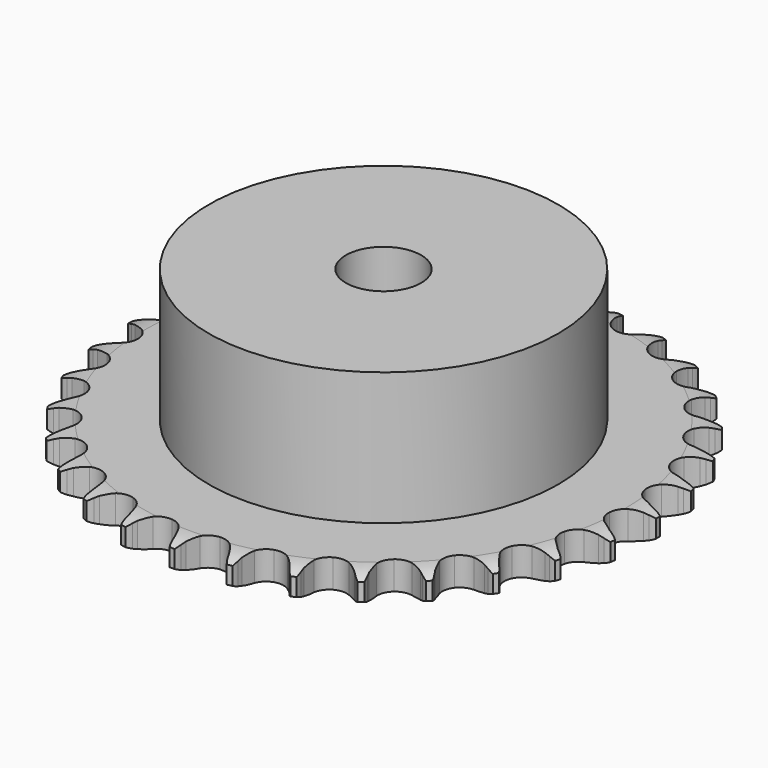
from build123d import *

# Parameters (mm, degrees)
PAD_DEPTH         = 5.3
SKETCH001_R       = 32.5
PAD001_DEPTH      = 30
SKETCH002_R       = 7
POCKET_DEPTH      = 0.001
POCKET_DEPTH_BACK = 30.001


with BuildPart() as part:
    # Sprocket → Pad (new body)
    with BuildSketch(Plane.XY):
        with BuildLine():
            ThreePointArc((-5.051205, 49.672555), (-4.455284, 48.887178), (-4.019635, 48.002785))
            Line((-4.019635, 48.002785), (-3.709921, 47.184961))
            ThreePointArc((-3.709921, 47.184961), (-3.217996, 46.119865), (-2.580961, 45.134672))
            ThreePointArc((-2.580961, 45.134672), (-1.442388, 44.186103), (0, 43.846037))
            ThreePointArc((0, 43.846037), (1.442388, 44.186103), (2.580961, 45.134672))
            ThreePointArc((2.580961, 45.134672), (3.217996, 46.119865), (3.709921, 47.184961))
            Line((3.709921, 47.184961), (4.019635, 48.002785))
            ThreePointArc((4.019635, 48.002785), (4.455284, 48.887178), (5.051205, 49.672555))
            ThreePointArc((5.051205, 49.672555), (5.476833, 48.783296), (5.725536, 47.829312))
            Line((5.725536, 47.829312), (5.864284, 46.965883))
            ThreePointArc((5.864284, 46.965883), (6.131737, 45.823566), (6.557414, 44.730306))
            ThreePointArc((6.557414, 44.730306), (7.481735, 43.571962), (8.826142, 42.948506))
            ThreePointArc((8.826142, 42.948506), (10.30746, 42.99126), (11.613671, 43.691219))
            Line((11.613671, 43.691219), (13.132241, 45.47228))
            ThreePointArc((13.132241, 45.47228), (13.356516, 45.847811), (13.600243, 46.211018))
            ThreePointArc((13.600243, 46.211018), (14.205, 46.989612), (14.946818, 47.638955))
            ThreePointArc((14.946818, 47.638955), (15.184727, 46.682221), (15.236304, 45.697701))
            Line((15.236304, 45.697701), (15.198405, 44.824017))
            ThreePointArc((15.198405, 44.824017), (15.230436, 43.651246), (15.427328, 42.494676))
            ThreePointArc((15.427328, 42.494676), (16.099555, 41.173979), (17.290942, 40.292658))
            ThreePointArc((17.290942, 40.292658), (18.750543, 40.03635), (20.170916, 40.459042))
            Line((20.170916, 40.459042), (22.016926, 41.897959))
            ThreePointArc((22.016926, 41.897959), (22.312204, 42.220656), (22.624054, 42.527367))
            ThreePointArc((22.624054, 42.527367), (23.373162, 43.168286), (24.230507, 43.65501))
            ThreePointArc((24.230507, 43.65501), (24.270957, 42.66997), (24.123296, 41.695221))
            Line((24.123296, 41.695221), (23.910301, 40.847051))
            ThreePointArc((23.910301, 40.847051), (23.705599, 39.691838), (23.665645, 38.519309))
            ThreePointArc((23.665645, 38.519309), (24.058257, 37.090329), (25.047847, 35.987224))
            ThreePointArc((25.047847, 35.987224), (26.425976, 35.442348), (27.902361, 35.570468))
            Line((27.902361, 35.570468), (30.000236, 36.608331))
            ThreePointArc((30.000236, 36.608331), (30.354428, 36.864983), (30.721635, 37.102641))
            ThreePointArc((30.721635, 37.102641), (31.584425, 37.579646), (32.522196, 37.883824))
            ThreePointArc((32.522196, 37.883824), (32.363531, 36.910806), (32.022676, 35.985733))
            Line((32.022676, 35.985733), (31.643306, 35.197801))
            ThreePointArc((31.643306, 35.197801), (31.210253, 34.107441), (30.935088, 32.966957))
            ThreePointArc((30.935088, 32.966957), (31.032011, 31.488196), (31.779292, 30.208469))
            ThreePointArc((31.779292, 30.208469), (33.019527, 29.397331), (34.491481, 29.225634))
            Line((34.491481, 29.225634), (36.755332, 29.819953))
            ThreePointArc((36.755332, 29.819953), (37.153937, 30.000053), (37.561468, 30.158928))
            ThreePointArc((37.561468, 30.158928), (38.502617, 30.452491), (39.482423, 30.56167))
            ThreePointArc((39.482423, 30.56167), (39.131138, 29.640508), (38.611045, 28.802986))
            Line((38.611045, 28.802986), (38.080831, 28.107549))
            ThreePointArc((38.080831, 28.107549), (37.437154, 27.126682), (36.938045, 26.064934))
            ThreePointArc((36.938045, 26.064934), (36.735311, 24.596933), (37.209688, 23.192976))
            ThreePointArc((37.209688, 23.192976), (38.261254, 22.148784), (39.668515, 21.6843))
            Line((39.668515, 21.6843), (42.005661, 21.810743))
            ThreePointArc((42.005661, 21.810743), (42.43236, 21.906918), (42.86353, 21.980505))
            ThreePointArc((42.86353, 21.980505), (43.844507, 22.078607), (44.826234, 21.988318))
            ThreePointArc((44.826234, 21.988318), (44.296712, 21.156725), (43.618673, 20.441041))
            Line((43.618673, 20.441041), (42.959322, 19.866571))
            ThreePointArc((42.959322, 19.866571), (42.131375, 19.035354), (41.428753, 18.09581))
            ThreePointArc((41.428753, 18.09581), (40.934663, 16.698668), (41.116715, 15.227959))
            ThreePointArc((41.116715, 15.227959), (41.936562, 13.993463), (43.221516, 13.255207))
            Line((43.221516, 13.255207), (45.536272, 12.908598))
            ThreePointArc((45.536272, 12.908598), (45.973598, 12.916911), (46.410754, 12.902198))
            ThreePointArc((46.410754, 12.902198), (47.391398, 12.800822), (48.334854, 12.514761))
            ThreePointArc((48.334854, 12.514761), (47.648773, 11.806783), (46.840548, 11.242237))
            Line((46.840548, 11.242237), (46.079054, 10.812253))
            ThreePointArc((46.079054, 10.812253), (45.100731, 10.164716), (44.223364, 9.385841))
            ThreePointArc((44.223364, 9.385841), (43.458146, 8.116759), (43.340419, 6.639508))
            ThreePointArc((43.340419, 6.639508), (43.894981, 5.265248), (45.005022, 4.283445))
            Line((45.005022, 4.283445), (47.202624, 3.477974))
            ThreePointArc((47.202624, 3.477974), (47.63267, 3.398084), (48.057917, 3.295673))
            ThreePointArc((48.057917, 3.295673), (48.99808, 2.99897), (49.86464, 2.528848))
            ThreePointArc((49.86464, 2.528848), (49.050088, 1.97347), (48.144765, 1.583175))
            Line((48.144765, 1.583175), (47.312303, 1.31528))
            ThreePointArc((47.312303, 1.31528), (46.223659, 0.877933), (45.207465, 0.291614))
            ThreePointArc((45.207465, 0.291614), (44.202446, -0.797452), (43.789761, -2.220765))
            ThreePointArc((43.789761, -2.220765), (44.056335, -3.678526), (44.946018, -4.863682))
            Line((44.946018, -4.863682), (46.936495, -6.095038))
            ThreePointArc((46.936495, -6.095038), (47.341656, -6.259861), (47.737582, -6.445777))
            ThreePointArc((47.737582, -6.445777), (48.598775, -6.92566), (49.352961, -7.560596))
            ThreePointArc((49.352961, -7.560596), (48.443286, -7.940637), (47.477929, -8.140703))
            Line((47.477929, -8.140703), (46.608582, -8.23554))
            ThreePointArc((46.608582, -8.23554), (45.454185, -8.444793), (44.340767, -8.814551))
            ThreePointArc((44.340767, -8.814551), (43.137094, -9.679016), (42.446345, -10.99012))
            ThreePointArc((42.446345, -10.99012), (42.414017, -12.471702), (43.046919, -13.811689))
            Line((43.046919, -13.811689), (44.74878, -15.41852))
            ThreePointArc((44.74878, -15.41852), (45.112469, -15.661527), (45.462866, -15.923336))
            ThreePointArc((45.462866, -15.923336), (46.20983, -16.566753), (46.820767, -17.340508))
            ThreePointArc((46.820767, -17.340508), (45.853211, -17.529653), (44.867342, -17.531299))
            Line((44.867342, -17.531299), (43.996699, -17.449197))
            ThreePointArc((43.996699, -17.449197), (42.823811, -17.421787), (41.658753, -17.559847))
            ThreePointArc((41.658753, -17.559847), (40.305703, -18.164319), (39.365171, -19.309538))
            ThreePointArc((39.365171, -19.309538), (39.035265, -20.754284), (39.385473, -22.194244))
            Line((39.385473, -22.194244), (40.729044, -24.110765))
            ThreePointArc((40.729044, -24.110765), (41.036372, -24.422008), (41.326894, -24.748992))
            ThreePointArc((41.326894, -24.748992), (41.929049, -25.529601), (42.371724, -26.410498))
            ThreePointArc((42.371724, -26.410498), (41.3859, -26.401004), (40.41988, -26.204162))
            Line((40.41988, -26.204162), (39.583587, -25.948481))
            ThreePointArc((39.583587, -25.948481), (38.440225, -25.685532), (37.271225, -25.586241))
            ThreePointArc((37.271225, -25.586241), (35.824193, -25.905972), (34.672382, -26.838422))
            ThreePointArc((34.672382, -26.838422), (34.058404, -28.187184), (34.111582, -29.668164))
            Line((34.111582, -29.668164), (35.041857, -31.815912))
            ThreePointArc((35.041857, -31.815912), (35.280241, -32.182649), (35.498995, -32.561422))
            ThreePointArc((35.498995, -32.561422), (35.931688, -33.447264), (36.187978, -34.399239))
            ThreePointArc((36.187978, -34.399239), (35.224245, -34.191494), (34.317624, -33.804223))
            Line((34.317624, -33.804223), (33.549918, -33.385432))
            ThreePointArc((33.549918, -33.385432), (32.482891, -32.897708), (31.357808, -32.565132))
            ThreePointArc((31.357808, -32.565132), (29.876036, -32.587033), (28.560102, -33.268537))
            ThreePointArc((28.560102, -33.268537), (27.687188, -34.466097), (27.441158, -35.927465))
            Line((27.441158, -35.927465), (27.920052, -38.218513))
            ThreePointArc((27.920052, -38.218513), (28.079733, -38.625728), (28.217762, -39.040783))
            ThreePointArc((28.217762, -39.040783), (28.463279, -39.995592), (28.522693, -40.979671))
            ThreePointArc((28.522693, -40.979671), (27.620505, -40.58218), (26.8104, -40.020336))
            Line((26.8104, -40.020336), (26.142711, -39.455579))
            ThreePointArc((26.142711, -39.455579), (25.195705, -38.763048), (24.160599, -38.210802))
            ThreePointArc((24.160599, -38.210802), (22.70475, -37.933976), (21.278568, -38.336634))
            ThreePointArc((21.278568, -38.336634), (20.182455, -39.333964), (19.647291, -40.715893))
            Line((19.647291, -40.715893), (19.655197, -43.056443))
            ThreePointArc((19.655197, -43.056443), (19.729637, -43.487466), (19.781291, -43.921809))
            ThreePointArc((19.781291, -43.921809), (19.829581, -44.906496), (19.689684, -45.88239))
            ThreePointArc((19.689684, -45.88239), (18.885979, -45.311428), (18.205555, -44.598011))
            Line((18.205555, -44.598011), (17.665218, -43.91041))
            ThreePointArc((17.665218, -43.91041), (16.877003, -43.041424), (15.974252, -42.292118))
            ThreePointArc((15.974252, -42.292118), (14.603929, -41.727898), (13.125887, -41.835225))
            ThreePointArc((13.125887, -41.835225), (11.851451, -42.591494), (11.04906, -43.837406))
            Line((11.04906, -43.837406), (10.585656, -46.131637))
            ThreePointArc((10.585656, -46.131637), (10.571807, -46.568822), (10.534972, -47.004672))
            ThreePointArc((10.534972, -47.004672), (10.384057, -47.978923), (10.050578, -48.906679))
            ThreePointArc((10.050578, -48.906679), (9.378259, -48.18562), (8.855373, -47.349838))
            Line((8.855373, -47.349838), (8.46451, -46.567543))
            ThreePointArc((8.46451, -46.567543), (7.867355, -45.557679), (7.133918, -44.641989))
            ThreePointArc((7.133918, -44.641989), (5.905222, -43.813475), (4.43583, -43.621077))
            ThreePointArc((4.43583, -43.621077), (3.035246, -44.105323), (1.99848, -45.164212))
            Line((1.99848, -45.164212), (1.082737, -47.318196))
            ThreePointArc((1.082737, -47.318196), (0.981167, -47.743644), (0.857349, -48.163158))
            ThreePointArc((0.857349, -48.163158), (0.513409, -49.087087), (0, -49.928723))
            ThreePointArc((0, -49.928723), (-0.513409, -49.087087), (-0.857349, -48.163158))
            Line((-0.857349, -48.163158), (-1.082737, -47.318196))
            ThreePointArc((-1.082737, -47.318196), (-1.464384, -46.208798), (-1.99848, -45.164212))
            ThreePointArc((-1.99848, -45.164212), (-3.035246, -44.105323), (-4.43583, -43.621077))
            ThreePointArc((-4.43583, -43.621077), (-5.905222, -43.813475), (-7.133918, -44.641989))
            Line((-7.133918, -44.641989), (-8.46451, -46.567543))
            ThreePointArc((-8.46451, -46.567543), (-8.649642, -46.963837), (-8.855373, -47.349838))
            ThreePointArc((-8.855373, -47.349838), (-9.378259, -48.18562), (-10.050578, -48.906679))
            ThreePointArc((-10.050578, -48.906679), (-10.384057, -47.978923), (-10.534972, -47.004672))
            Line((-10.534972, -47.004672), (-10.585656, -46.131637))
            ThreePointArc((-10.585656, -46.131637), (-10.73617, -44.968123), (-11.04906, -43.837406))
            ThreePointArc((-11.04906, -43.837406), (-11.851451, -42.591494), (-13.125887, -41.835225))
            ThreePointArc((-13.125887, -41.835225), (-14.603929, -41.727898), (-15.974252, -42.292118))
            Line((-15.974252, -42.292118), (-17.665218, -43.91041))
            ThreePointArc((-17.665218, -43.91041), (-17.926335, -44.261324), (-18.205555, -44.598011))
            ThreePointArc((-18.205555, -44.598011), (-18.885979, -45.311428), (-19.689684, -45.88239))
            ThreePointArc((-19.689684, -45.88239), (-19.829581, -44.906496), (-19.781291, -43.921809))
            Line((-19.781291, -43.921809), (-19.655197, -43.056443))
            ThreePointArc((-19.655197, -43.056443), (-19.568417, -41.886447), (-19.647291, -40.715893))
            ThreePointArc((-19.647291, -40.715893), (-20.182455, -39.333964), (-21.278568, -38.336634))
            ThreePointArc((-21.278568, -38.336634), (-22.70475, -37.933976), (-24.160599, -38.210802))
            Line((-24.160599, -38.210802), (-26.142711, -39.455579))
            ThreePointArc((-26.142711, -39.455579), (-26.46912, -39.746747), (-26.8104, -40.020336))
            ThreePointArc((-26.8104, -40.020336), (-27.620505, -40.58218), (-28.522693, -40.979671))
            ThreePointArc((-28.522693, -40.979671), (-28.463279, -39.995592), (-28.217762, -39.040783))
            Line((-28.217762, -39.040783), (-27.920052, -38.218513))
            ThreePointArc((-27.920052, -38.218513), (-27.59953, -37.089936), (-27.441158, -35.927465))
            ThreePointArc((-27.441158, -35.927465), (-27.687188, -34.466097), (-28.560102, -33.268537))
            ThreePointArc((-28.560102, -33.268537), (-29.876036, -32.587033), (-31.357808, -32.565132))
            Line((-31.357808, -32.565132), (-33.549918, -33.385432))
            ThreePointArc((-33.549918, -33.385432), (-33.928257, -33.604934), (-34.317624, -33.804223))
            ThreePointArc((-34.317624, -33.804223), (-35.224245, -34.191494), (-36.187978, -34.399239))
            ThreePointArc((-36.187978, -34.399239), (-35.931688, -33.447264), (-35.498995, -32.561422))
            Line((-35.498995, -32.561422), (-35.041857, -31.815912))
            ThreePointArc((-35.041857, -31.815912), (-34.500715, -30.774958), (-34.111582, -29.668164))
            ThreePointArc((-34.111582, -29.668164), (-34.058404, -28.187184), (-34.672382, -26.838422))
            ThreePointArc((-34.672382, -26.838422), (-35.824193, -25.905972), (-37.271225, -25.586241))
            Line((-37.271225, -25.586241), (-39.583587, -25.948481))
            ThreePointArc((-39.583587, -25.948481), (-39.998368, -26.087331), (-40.41988, -26.204162))
            ThreePointArc((-40.41988, -26.204162), (-41.3859, -26.401004), (-42.371724, -26.410498))
            ThreePointArc((-42.371724, -26.410498), (-41.929049, -25.529601), (-41.326894, -24.748992))
            Line((-41.326894, -24.748992), (-40.729044, -24.110765))
            ThreePointArc((-40.729044, -24.110765), (-39.989437, -23.20005), (-39.385473, -22.194244))
            ThreePointArc((-39.385473, -22.194244), (-39.035265, -20.754284), (-39.365171, -19.309538))
            ThreePointArc((-39.365171, -19.309538), (-40.305703, -18.164319), (-41.658753, -17.559847))
            Line((-41.658753, -17.559847), (-43.996699, -17.449197))
            ThreePointArc((-43.996699, -17.449197), (-44.43094, -17.50171), (-44.867342, -17.531299))
            ThreePointArc((-44.867342, -17.531299), (-45.853211, -17.529653), (-46.820767, -17.340508))
            ThreePointArc((-46.820767, -17.340508), (-46.20983, -16.566753), (-45.462866, -15.923336))
            Line((-45.462866, -15.923336), (-44.74878, -15.41852))
            ThreePointArc((-44.74878, -15.41852), (-43.840987, -14.675329), (-43.046919, -13.811689))
            ThreePointArc((-43.046919, -13.811689), (-42.414017, -12.471702), (-42.446345, -10.99012))
            ThreePointArc((-42.446345, -10.99012), (-43.137094, -9.679016), (-44.340767, -8.814551))
            Line((-44.340767, -8.814551), (-46.608582, -8.23554))
            ThreePointArc((-46.608582, -8.23554), (-47.044504, -8.199567), (-47.477929, -8.140703))
            ThreePointArc((-47.477929, -8.140703), (-48.443286, -7.940637), (-49.352961, -7.560596))
            ThreePointArc((-49.352961, -7.560596), (-48.598775, -6.92566), (-47.737582, -6.445777))
            Line((-47.737582, -6.445777), (-46.936495, -6.095038))
            ThreePointArc((-46.936495, -6.095038), (-45.897681, -5.549798), (-44.946018, -4.863682))
            ThreePointArc((-44.946018, -4.863682), (-44.056335, -3.678526), (-43.789761, -2.220765))
            ThreePointArc((-43.789761, -2.220765), (-44.202446, -0.797452), (-45.207465, 0.291614))
            Line((-45.207465, 0.291614), (-47.312303, 1.31528))
            ThreePointArc((-47.312303, 1.31528), (-47.732061, 1.438268), (-48.144765, 1.583175))
            ThreePointArc((-48.144765, 1.583175), (-49.050088, 1.97347), (-49.86464, 2.528848))
            ThreePointArc((-49.86464, 2.528848), (-48.99808, 2.99897), (-48.057917, 3.295673))
            Line((-48.057917, 3.295673), (-47.202624, 3.477974))
            ThreePointArc((-47.202624, 3.477974), (-46.075319, 3.802942), (-45.005022, 4.283445))
            ThreePointArc((-45.005022, 4.283445), (-43.894981, 5.265248), (-43.340419, 6.639508))
            ThreePointArc((-43.340419, 6.639508), (-43.458146, 8.116759), (-44.223364, 9.385841))
            Line((-44.223364, 9.385841), (-46.079054, 10.812253))
            ThreePointArc((-46.079054, 10.812253), (-46.465462, 11.01722), (-46.840548, 11.242237))
            ThreePointArc((-46.840548, 11.242237), (-47.648773, 11.806783), (-48.334854, 12.514761))
            ThreePointArc((-48.334854, 12.514761), (-47.391398, 12.800822), (-46.410754, 12.902198))
            Line((-46.410754, 12.902198), (-45.536272, 12.908598))
            ThreePointArc((-45.536272, 12.908598), (-44.366628, 12.999989), (-43.221516, 13.255207))
            ThreePointArc((-43.221516, 13.255207), (-41.936562, 13.993463), (-41.116715, 15.227959))
            ThreePointArc((-41.116715, 15.227959), (-40.934663, 16.698668), (-41.428753, 18.09581))
            Line((-41.428753, 18.09581), (-42.959322, 19.866571))
            ThreePointArc((-42.959322, 19.866571), (-43.296561, 20.145125), (-43.618673, 20.441041))
            ThreePointArc((-43.618673, 20.441041), (-44.296712, 21.156725), (-44.826234, 21.988318))
            ThreePointArc((-44.826234, 21.988318), (-43.844507, 22.078607), (-42.86353, 21.980505))
            Line((-42.86353, 21.980505), (-42.005661, 21.810743))
            ThreePointArc((-42.005661, 21.810743), (-40.841562, 21.664815), (-39.668515, 21.6843))
            ThreePointArc((-39.668515, 21.6843), (-38.261254, 22.148784), (-37.209688, 23.192976))
            ThreePointArc((-37.209688, 23.192976), (-36.735311, 24.596933), (-36.938045, 26.064934))
            Line((-36.938045, 26.064934), (-38.080831, 28.107549))
            ThreePointArc((-38.080831, 28.107549), (-38.355094, 28.448287), (-38.611045, 28.802986))
            ThreePointArc((-38.611045, 28.802986), (-39.131138, 29.640508), (-39.482423, 30.56167))
            ThreePointArc((-39.482423, 30.56167), (-38.502617, 30.452491), (-37.561468, 30.158928))
            Line((-37.561468, 30.158928), (-36.755332, 29.819953))
            ThreePointArc((-36.755332, 29.819953), (-35.644438, 29.442681), (-34.491481, 29.225634))
            ThreePointArc((-34.491481, 29.225634), (-33.019527, 29.397331), (-31.779292, 30.208469))
            ThreePointArc((-31.779292, 30.208469), (-31.032011, 31.488196), (-30.935088, 32.966957))
            Line((-30.935088, 32.966957), (-31.643306, 35.197801))
            ThreePointArc((-31.643306, 35.197801), (-31.843365, 35.586773), (-32.022676, 35.985733))
            ThreePointArc((-32.022676, 35.985733), (-32.363531, 36.910806), (-32.522196, 37.883824))
            ThreePointArc((-32.522196, 37.883824), (-31.584425, 37.579646), (-30.721635, 37.102641))
            Line((-30.721635, 37.102641), (-30.000236, 36.608331))
            ThreePointArc((-30.000236, 36.608331), (-28.988026, 36.01516), (-27.902361, 35.570468))
            ThreePointArc((-27.902361, 35.570468), (-26.425976, 35.442348), (-25.047847, 35.987224))
            ThreePointArc((-25.047847, 35.987224), (-24.058257, 37.090329), (-23.665645, 38.519309))
            Line((-23.665645, 38.519309), (-23.910301, 40.847051))
            ThreePointArc((-23.910301, 40.847051), (-24.027964, 41.268332), (-24.123296, 41.695221))
            ThreePointArc((-24.123296, 41.695221), (-24.270957, 42.66997), (-24.230507, 43.65501))
            ThreePointArc((-24.230507, 43.65501), (-23.373162, 43.168286), (-22.624054, 42.527367))
            Line((-22.624054, 42.527367), (-22.016926, 41.897959))
            ThreePointArc((-22.016926, 41.897959), (-21.144841, 41.113174), (-20.170916, 40.459042))
            ThreePointArc((-20.170916, 40.459042), (-18.750543, 40.03635), (-17.290942, 40.292658))
            ThreePointArc((-17.290942, 40.292658), (-16.099555, 41.173979), (-15.427328, 42.494676))
            Line((-15.427328, 42.494676), (-15.198405, 44.824017))
            ThreePointArc((-15.198405, 44.824017), (-15.228856, 45.26036), (-15.236304, 45.697701))
            ThreePointArc((-15.236304, 45.697701), (-15.184727, 46.682221), (-14.946818, 47.638955))
            ThreePointArc((-14.946818, 47.638955), (-14.205, 46.989612), (-13.600243, 46.211018))
            Line((-13.600243, 46.211018), (-13.132241, 45.47228))
            ThreePointArc((-13.132241, 45.47228), (-12.435984, 44.528011), (-11.613671, 43.691219))
            ThreePointArc((-11.613671, 43.691219), (-10.30746, 42.99126), (-8.826142, 42.948506))
            ThreePointArc((-8.826142, 42.948506), (-7.481735, 43.571962), (-6.557414, 44.730306))
            Line((-6.557414, 44.730306), (-5.864284, 46.965883))
            ThreePointArc((-5.864284, 46.965883), (-5.806277, 47.399424), (-5.725536, 47.829312))
            ThreePointArc((-5.725536, 47.829312), (-5.476833, 48.783296), (-5.051205, 49.672555))
        make_face()
    extrude(amount=PAD_DEPTH)

    # Sketch → Groove (revolve, cut)
    with BuildSketch(Plane.XZ):
        with BuildLine():
            Line((44.791101, 0), (49.15, 0))
            Line((53.508899, 0), (49.15, 0))
            Line((53.508899, 5.3), (53.508899, 0))
            Line((49.15, 5.3), (53.508899, 5.3))
            Line((44.791101, 5.3), (49.15, 5.3))
            ThreePointArc((49.15, 4.3), (47.027169, 5.046794), (44.791101, 5.3))
            Line((49.15, 1), (49.15, 4.3))
            ThreePointArc((44.791101, 0), (47.027169, 0.253206), (49.15, 1))
        make_face()
    revolve(axis=Axis((0, 0, 0), (0, 0, 1)), mode=Mode.SUBTRACT)

    # Sketch001 → Pad001 (join)
    with BuildSketch(Plane.XY):
        Circle(SKETCH001_R)
    extrude(amount=PAD001_DEPTH)

    # Sketch002 → Pocket (cut, two sides)
    with BuildSketch(Plane.XY) as pocket_sk:
        Circle(SKETCH002_R)
    extrude(amount=-POCKET_DEPTH, mode=Mode.SUBTRACT)
    extrude(pocket_sk.sketch, amount=POCKET_DEPTH_BACK, mode=Mode.SUBTRACT)


solid = part.part
